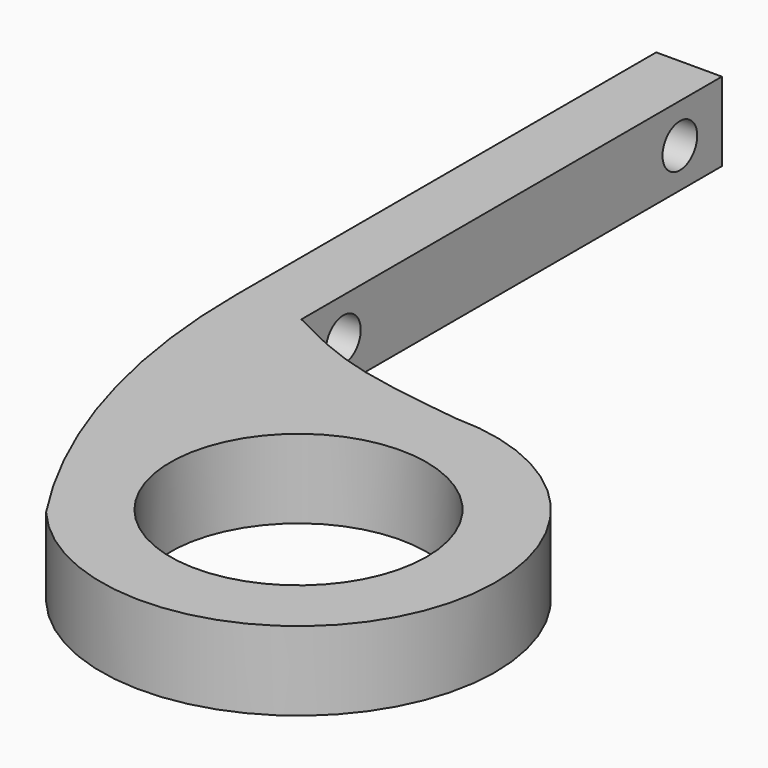
from build123d import *

# Parameters (mm, degrees)
F0_R     = 9.75
F1_DEPTH = 6
F3_D     = 3.3


with BuildPart() as f1:
    # F0 (on Top) → F1 (new body)
    with BuildSketch(Plane.XY):
        with BuildLine():
            Line((-15.1559747756, 19.2169826478), (-15.1559747756, 59.2169826478))
            Line((-15.1559747756, 59.2169826478), (-20.1559747756, 59.2169826478))
            Line((-20.1559747756, 59.2169826478), (-20.1559747756, 19.2169826478))
            ThreePointArc((-20.1559747756, 19.2169826478), (-17.9460148735, 4.1596386744), (-11.502541429, -9.6276446067))
            ThreePointArc((-11.502541429, -9.6276446067), (13.5907076545, -6.3476503881), (0, 15))
            add(Edge.make_bspline(
                [(-15.1559747756, 19.2169826478), (-13.3050382256, 18.2669262595), (-9.2294532385, 16.1749930959), (-3.2589726983, 15.4148967789), (0, 15)],
                knots=[0, 0, 0, 0, 0.4541523624, 1, 1, 1, 1], degree=3))
        make_face()
        Circle(F0_R, mode=Mode.SUBTRACT)
    extrude(amount=F1_DEPTH)

    # F3 (through all)
    with Locations(Plane.YZ):
        with Locations((23.2169826478, 3), (55.2169826478, 3)):
            Hole(F3_D / 2)


solid = f1.part
